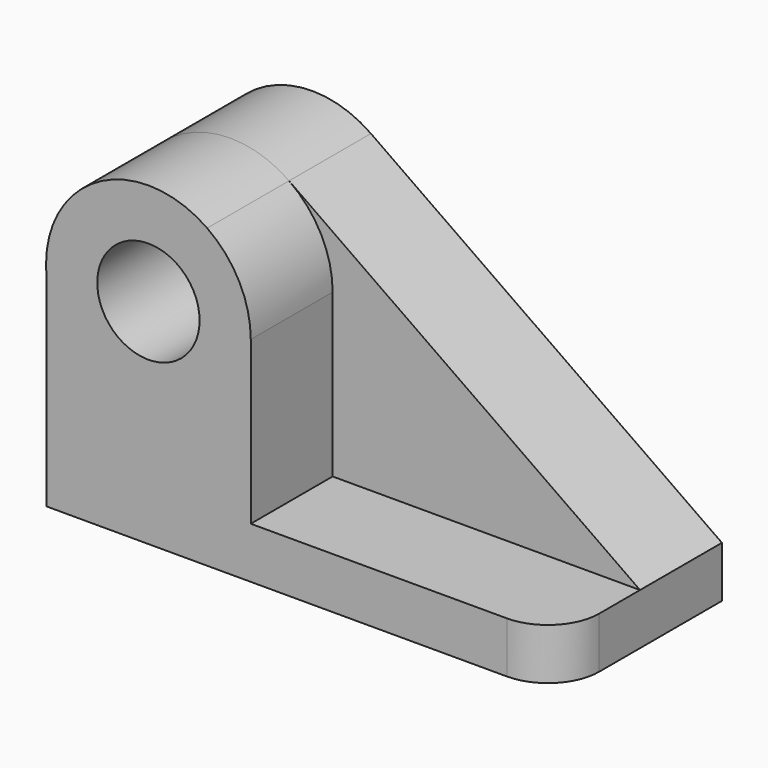
from build123d import *

# Parameters (mm, degrees)
F0_R     = 12.7
F1_DEPTH = 25.4
F2_R     = 12.7
F3_DEPTH = 25.4
F4_R     = 12.7


with BuildPart() as f1:
    # F0 (on Front) → F1 (new body)
    with BuildSketch(Plane.XZ):
        with BuildLine():
            ThreePointArc((-75.5979648529, 39.8426862847), (-49.2037324517, 16.6386265616), (-24.8910574185, 42.0153427482))
            ThreePointArc((-24.8910574185, 42.0153427482), (-27.7576393347, 53.737333597), (-35.7103542263, 62.8134939742))
            ThreePointArc((-35.7103542263, 62.8134939742), (-62.9669150163, 64.0263089733), (-75.5979648529, 39.8426862847))
        make_face()
        with Locations((-50.2910574185, 42.0153427482)):
            Circle(F0_R, mode=Mode.SUBTRACT)
        with BuildLine():
            ThreePointArc((-35.7103542263, 62.8134939742), (-27.7576393347, 53.737333597), (-24.8910574185, 42.0153427482))
            ThreePointArc((-24.8910574185, 42.0153427482), (-49.2037324517, 16.6386265616), (-75.5979648529, 39.8426862847))
            Line((-75.5979648529, 39.8426862847), (-75.5979648529, -10.9573137153))
            Line((-75.5979648529, -10.9573137153), (51.4020351471, -10.9573137153))
            Line((51.4020351471, -10.9573137153), (51.4020351471, 1.7426862847))
            Line((51.4020351471, 1.7426862847), (-35.7103542263, 62.8134939742))
        make_face()
    extrude(amount=F1_DEPTH)

    # F2 (on face) → F3 (join)
    with BuildSketch(Plane.XZ.offset(25.4)):
        with BuildLine():
            Line((-24.8910574185, 1.7426862847), (-24.8910574185, 42.0153427482))
            ThreePointArc((-24.8910574185, 42.0153427482), (-27.7576393347, 53.737333597), (-35.7103542263, 62.8134939742))
            ThreePointArc((-35.7103542263, 62.8134939742), (-62.0130482673, 64.548760832), (-75.6910574185, 42.0153427482))
            ThreePointArc((-75.6910574185, 42.0153427482), (-75.6909895589, 41.9566293417), (-75.6907859804, 41.8979162489))
            ThreePointArc((-75.6907859804, 41.8979162489), (-75.6651924002, 40.8693611015), (-75.5979648529, 39.8426862847))
            Line((-75.5979648529, 39.8426862847), (-75.5979648529, 1.7426862847))
            Line((-75.5979648529, 1.7426862847), (-75.5979648529, -10.9573137153))
            Line((-75.5979648529, -10.9573137153), (51.4020351471, -10.9573137153))
            Line((51.4020351471, -10.9573137153), (51.4020351471, 1.7426862847))
            Line((51.4020351471, 1.7426862847), (-24.8910574185, 1.7426862847))
        make_face()
        with Locations((-50.2910574185, 42.0153427482)):
            Circle(F2_R, mode=Mode.SUBTRACT)
    extrude(amount=F3_DEPTH)

    # F4
    f4_edges = [f1.edges().sort_by_distance(p)[0] for p in [
        (51.402035, -50.8, -4.607314),
    ]]
    fillet(f4_edges, radius=F4_R)


solid = f1.part
